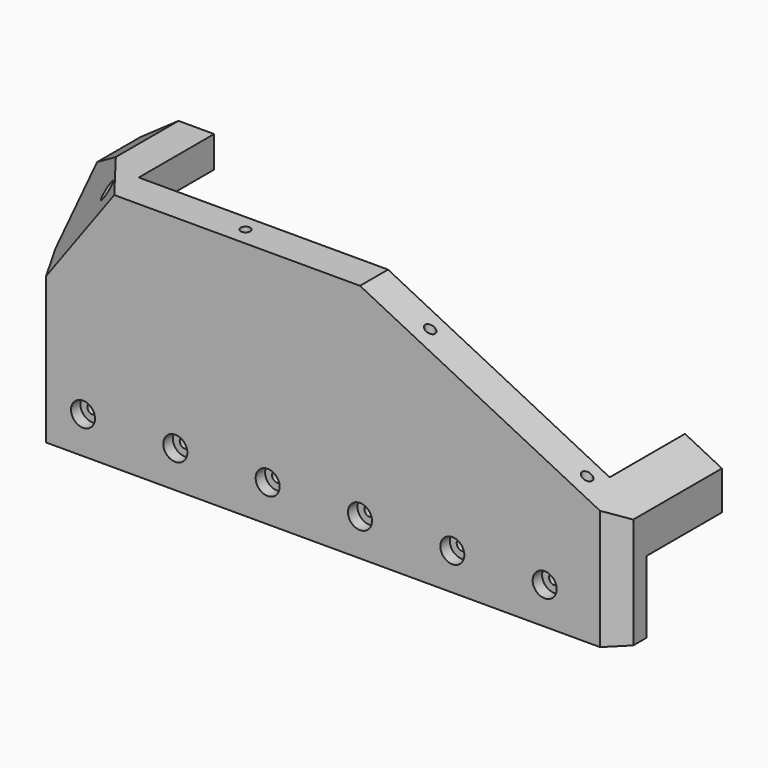
from build123d import *

# Parameters (mm, degrees)
PAD002_DEPTH        = 130
POCKET001_DEPTH     = 77
SKETCH007_R         = 2.65
HOLE002_DEPTH       = 150.001
HOLE003_D           = 5.5
HOLE003_DEPTH       = 25
HOLE003_CBORE_D     = 13
HOLE003_CBORE_DEPTH = 6.4
SKETCH011_W         = 40
SKETCH011_H         = 91
PAD003_DEPTH        = 55
POCKET002_DEPTH     = 55
POCKET002_TAPER     = 30
POCKET005_DEPTH     = 36
PAD007_DEPTH        = 54
SKETCH030_R         = 13
SKETCH030_R_2       = 10.65
POCKET010_DEPTH     = 5
POCKET012_DEPTH     = 104


with BuildPart() as part:
    # Sketch005 → Pad002 (new body)
    with BuildSketch(Plane.XY):
        Polygon((300, -70), (0, -70), (-5, -57.5), (-5, -51), (310, -51), (310, -60), align=None)
    extrude(amount=PAD002_DEPTH)

    # Sketch006 → Pocket001 (cut)
    with BuildSketch(Plane.XZ):
        Polygon((310, 60), (130, 150), (310, 150), align=None)
    extrude(amount=POCKET001_DEPTH, mode=Mode.SUBTRACT)

    # Sketch007 → Hole002 (cut, through all)
    with BuildSketch(Plane.XY.offset(150)):
        with Locations((100, -60)):
            Circle(SKETCH007_R)
        with Locations((200, -60)):
            Circle(SKETCH007_R)
        with Locations((285, -60)):
            Circle(SKETCH007_R)
        with Locations((25, -60)):
            Circle(SKETCH007_R)
    extrude(amount=-HOLE002_DEPTH, mode=Mode.SUBTRACT)

    # Hole003
    with Locations(Plane.XZ.offset(70)):
        with Locations((20, 20), (70, 20), (120, 20), (170, 20), (220, 20), (270, 20)):
            CounterBoreHole(HOLE003_D / 2, HOLE003_CBORE_D / 2, HOLE003_CBORE_DEPTH, depth=HOLE003_DEPTH)

    # Sketch011 → Pad003 (join)
    with BuildSketch(Plane.XZ):
        with Locations((15, 84.5)):
            Rectangle(SKETCH011_W, SKETCH011_H)
    extrude(amount=PAD003_DEPTH)

    # Sketch013 → Pocket002 (cut)
    with BuildSketch(Plane.XY.offset(130)):
        Polygon((-40, 30), (60, -100), (-40, -100), align=None)
    extrude(amount=-POCKET002_DEPTH, taper=POCKET002_TAPER, mode=Mode.SUBTRACT)

    # Sketch017 → Pocket005 (cut)
    with BuildSketch(Plane.YZ.offset(35)):
        Polygon((-51, 30), (0, 30), (0, 113), (-30, 113), (-51, 94), align=None)
    extrude(amount=-POCKET005_DEPTH, mode=Mode.SUBTRACT)

    # Sketch019 → Pad007 (join)
    with BuildSketch(Plane.XZ):
        Polygon((290, 70), (290, 39), (310, 39), (310, 60), align=None)
    extrude(amount=PAD007_DEPTH)

    # Sketch030 → Pocket010 (cut)
    with BuildSketch(Plane.YZ):
        with Locations((-25, 60)):
            Circle(SKETCH030_R)
        with Locations((-20, 95)):
            Circle(SKETCH030_R_2)
    extrude(amount=-POCKET010_DEPTH, mode=Mode.SUBTRACT)

    # Sketch135 → Pocket012 (cut)
    with BuildSketch(Plane.XZ):
        Polygon((-20, 140), (-20, 105), (30, 140), align=None)
    extrude(amount=POCKET012_DEPTH, mode=Mode.SUBTRACT)


with BuildPart() as part_1:
    # Body002 placement: moved
    add(part.part.moved(Location((0, 0, 10))))


solid = part_1.part
